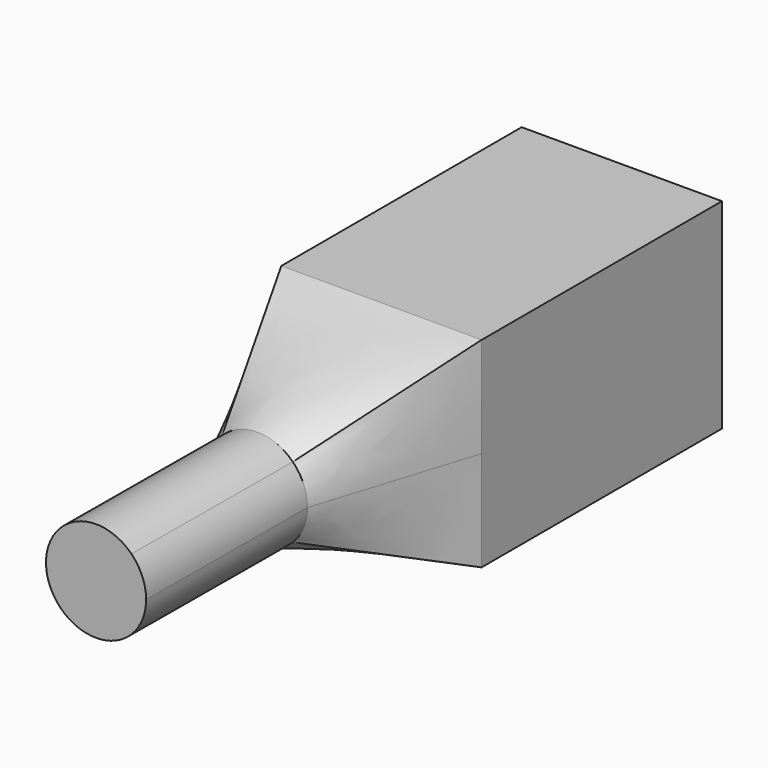
from build123d import *

# Parameters (mm, degrees)
F0_W      = 40
F0_H      = 40
F2_W      = 40
F2_H      = 40
F7_FACE_W = 40
F7_FACE_H = 40
F4_R      = 10
F6_R      = 10


with BuildPart() as f7:
    # F0 (on Front) → F7 section 0
    with BuildSketch(Plane.XZ):
        with Locations((20, 20)):
            Rectangle(F0_W, F0_H)
    # F2 (on offset) → F7 section 1
    with BuildSketch(Plane.XZ.offset(60)):
        with Locations((20, 20)):
            Rectangle(F2_W, F2_H)
    loft()

    # F7_face (on face) → F8 section 0
    with BuildSketch(Plane(origin=(20, -60, 20), x_dir=(1, 0, 0), z_dir=(0, -1, 0))):
        Rectangle(F7_FACE_W, F7_FACE_H)
    # F4 (on offset) → F8 section 1
    with BuildSketch(Plane.XZ.offset(90)):
        with Locations((19.2296523601, 19.2296523601)):
            Circle(F4_R)
    loft()

    # F8_face (on face) → F9 section 0
    with BuildSketch(Plane(origin=(19.2296523601, -90, 19.2296523601), x_dir=(1, 0, 0), z_dir=(0, -1, 0))):
        with BuildLine():
            ThreePointArc((-7.0710678119, 7.0710678119), (-10, 0), (-7.0710678119, -7.0710678119))
            ThreePointArc((-7.0710678119, -7.0710678119), (0, -10), (7.0710678119, -7.0710678119))
            ThreePointArc((7.0710678119, -7.0710678119), (9.2387953251, -3.8268343237), (10, 0))
            ThreePointArc((10, 0), (9.2387953251, 3.8268343237), (7.0710678119, 7.0710678119))
            ThreePointArc((7.0710678119, 7.0710678119), (0, 10), (-7.0710678119, 7.0710678119))
        make_face()
    # F6 (on offset) → F9 section 1
    with BuildSketch(Plane.XZ.offset(130)):
        with Locations((19.000729546, 19.2296523601)):
            Circle(F6_R)
    loft()


solid = f7.part
